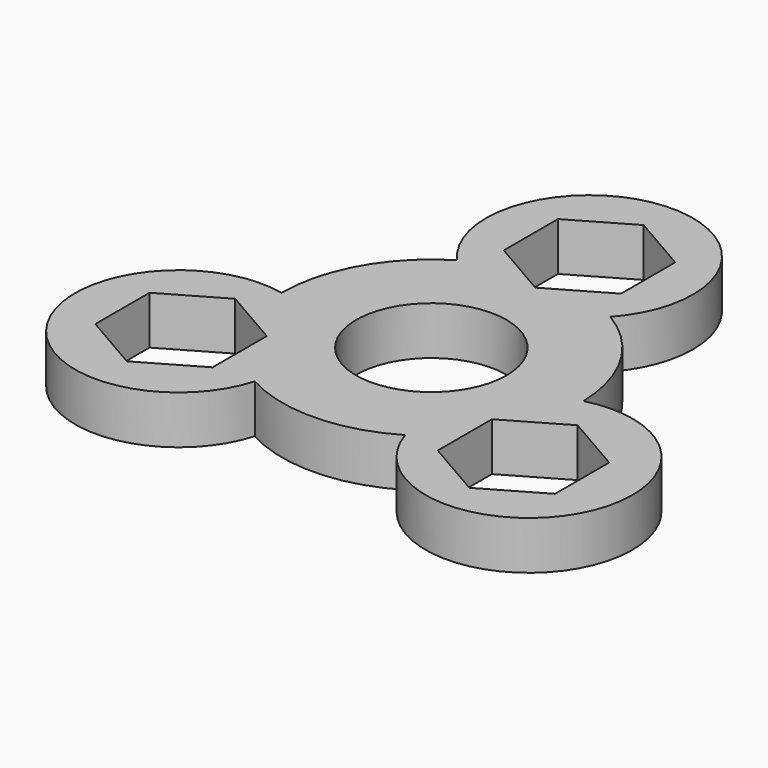
from build123d import *

# Parameters (mm, degrees)
F0_R     = 10.9
F1_DEPTH = 7


with BuildPart() as f1:
    # F0 (on Top) → F1 (new body)
    with BuildSketch(Plane.XY):
        with BuildLine():
            ThreePointArc((21.619418, 0.541571), (18.675118, 10.905618), (11.095609, 18.562866))
            ThreePointArc((11.095609, 18.562866), (0, 43.656797), (-11.095609, 18.562866))
            ThreePointArc((-11.095609, 18.562866), (-18.833376, 10.629979), (-21.625995, -0.094059))
            ThreePointArc((-21.625995, -0.094059), (-37.738757, -22.402484), (-10.438593, -18.940124))
            ThreePointArc((-10.438593, -18.940124), (0.363458, -21.623146), (11.069236, -18.578605))
            ThreePointArc((11.069236, -18.578605), (38.482629, -21.234049), (21.619418, 0.541571))
        make_face()
        Polygon((-16.317514, -19.235876), (-24.817514, -24.143353), (-33.317514, -19.235876), (-33.317514, -9.420921), (-24.817514, -4.513444), (-16.317514, -9.420921), align=None, mode=Mode.SUBTRACT)
        Circle(F0_R, mode=Mode.SUBTRACT)
        Polygon((24.817514, -4.513444), (33.317514, -9.420921), (33.317514, -19.235876), (24.817514, -24.143353), (16.317514, -19.235876), (16.317514, -9.420921), align=None, mode=Mode.SUBTRACT)
        Polygon((0, 38.471752), (8.5, 33.564274), (8.5, 23.74932), (0, 18.841842), (-8.5, 23.74932), (-8.5, 33.564274), align=None, mode=Mode.SUBTRACT)
    extrude(amount=F1_DEPTH)


solid = f1.part
